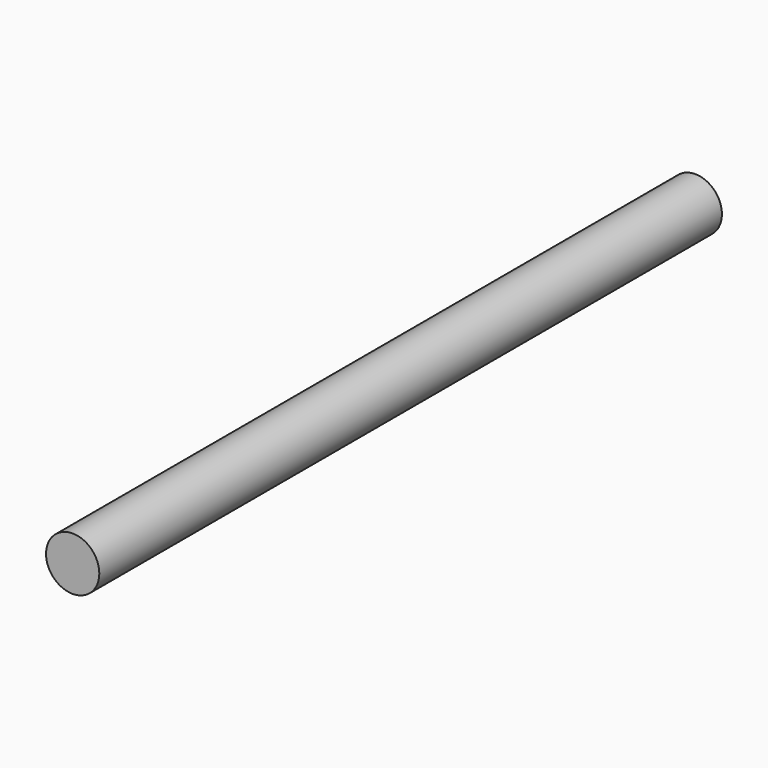
from build123d import *

# Parameters (mm, degrees)
CYLINDER009_R          = 36.5125
CYLINDER009_DEPTH      = 1066.8
CYLINDER009_ROLL_ANGLE = 90


with BuildPart() as part:
    # Cylinder009 → Cylinder009 (new body)
    with BuildSketch(Plane.XY):
        Circle(CYLINDER009_R)
    extrude(amount=CYLINDER009_DEPTH)


with BuildPart() as part_1:
    # Cylinder009 roll: moved
    add(part.part.rotate(Axis((0, 0, 0), (1, 0, 0)), CYLINDER009_ROLL_ANGLE))


with BuildPart() as part_2:
    # Cylinder009 placement: moved
    add(part_1.part.moved(Location((-766.4, 2199.64, -99.2001))))


solid = part_2.part
